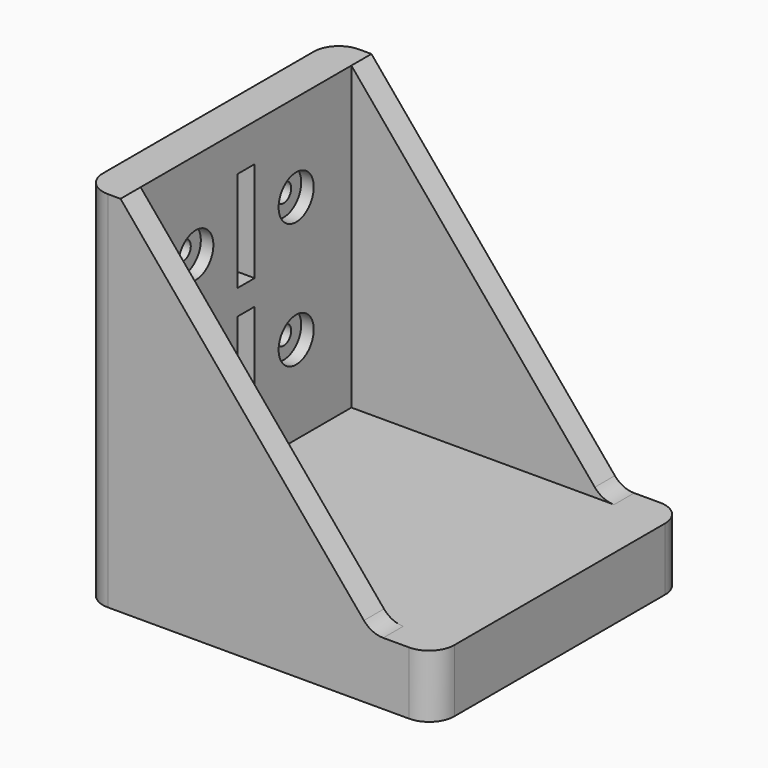
from build123d import *

# Parameters (mm, degrees)
F0_W      = 56
F0_H      = 50
F1_DEPTH  = 10
F2_W      = 40
F2_H      = 4
F3_DEPTH  = 48
F5_DEPTH  = 50.001
F6_R      = 4
F7_W      = 1.035
F7_H      = 16
F8_DEPTH  = 2
F7_W_2    = 3.45
F9_DEPTH  = 6
F10_R     = 3.5
F10_R_2   = 1.5
F11_DEPTH = 2
F12_DEPTH = 6


with BuildPart() as f1:
    # F0 (on Top) → F1 (new body)
    with BuildSketch(Plane.XY):
        with Locations((28, 25)):
            Rectangle(F0_W, F0_H)
    extrude(amount=F1_DEPTH)

    # F2 (on face) → F3 (join)
    with BuildSketch(Plane.XY.offset(10)):
        Polygon((6, 50), (0, 50), (0, 0), (6, 0), (6, 4), (6, 46), align=None)
        with Locations((26, 48)):
            Rectangle(F2_W, F2_H)
        with Locations((26, 2)):
            Rectangle(F2_W, F2_H)
    extrude(amount=F3_DEPTH)

    # F4 (on face) → F5 (cut, through all)
    with BuildSketch(Plane.XZ):
        Polygon((6, 58), (46, 10), (46, 58), align=None)
    extrude(amount=-F5_DEPTH, mode=Mode.SUBTRACT)

    # F6
    f6_edges = [f1.edges().sort_by_distance(p)[0] for p in [
        (0, 0, 29),
        (56, 0, 5),
        (46, 2, 10),
        (46, 48, 10),
        (56, 50, 5),
        (0, 50, 29),
    ]]
    fillet(f6_edges, radius=F6_R)

    # F7 (on face) → F8 (cut)
    with BuildSketch(Plane(origin=(0, 0, 0), x_dir=(0, -1, 0), z_dir=(-1, 0, 0))):
        with Locations((-27.2425, 44)):
            Rectangle(F7_W, F7_H)
        with Locations((-22.7575, 44)):
            Rectangle(F7_W, F7_H)
        with Locations((-22.7575, 24)):
            Rectangle(F7_W, F7_H)
        with Locations((-27.2425, 24)):
            Rectangle(F7_W, F7_H)
    extrude(amount=-F8_DEPTH, mode=Mode.SUBTRACT)

    # F7 (on face) → F9 (cut, through all)
    with BuildSketch(Plane(origin=(0, 0, 0), x_dir=(0, -1, 0), z_dir=(-1, 0, 0))):
        with Locations((-25, 44)):
            Rectangle(F7_W_2, F7_H)
        with Locations((-25, 24)):
            Rectangle(F7_W_2, F7_H)
    extrude(amount=-F9_DEPTH, mode=Mode.SUBTRACT)

    # F10 (on face) → F11 (cut)
    with BuildSketch(Plane.YZ.offset(6)):
        with Locations((15, 44)):
            Circle(F10_R)
        with Locations((15, 44)):
            Circle(F10_R_2, mode=Mode.SUBTRACT)
        with Locations((35, 44)):
            Circle(F10_R)
        with Locations((35, 44)):
            Circle(F10_R_2, mode=Mode.SUBTRACT)
        with Locations((35, 24)):
            Circle(F10_R)
        with Locations((35, 24)):
            Circle(F10_R_2, mode=Mode.SUBTRACT)
        with Locations((15, 24)):
            Circle(F10_R)
        with Locations((15, 24)):
            Circle(F10_R_2, mode=Mode.SUBTRACT)
    extrude(amount=-F11_DEPTH, mode=Mode.SUBTRACT)

    # F10 (on face) → F12 (cut, through all)
    with BuildSketch(Plane.YZ.offset(6)):
        with Locations((15, 44)):
            Circle(F10_R_2)
        with Locations((35, 44)):
            Circle(F10_R_2)
        with Locations((35, 24)):
            Circle(F10_R_2)
        with Locations((15, 24)):
            Circle(F10_R_2)
    extrude(amount=-F12_DEPTH, mode=Mode.SUBTRACT)


solid = f1.part
